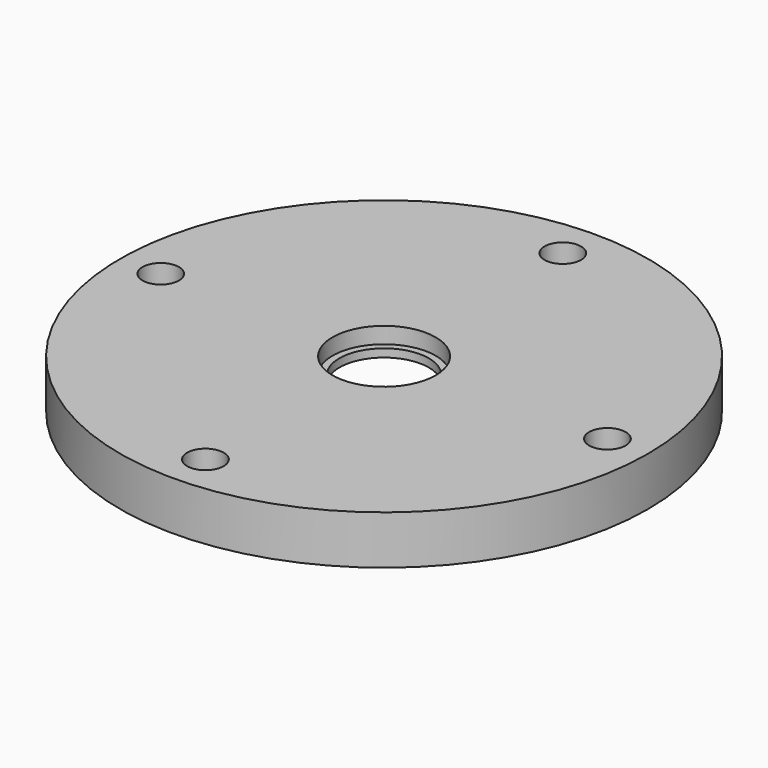
from build123d import *

# Parameters (mm, degrees)
F0_W     = 65
F0_H     = 12
F4_R     = 4.5
F5_DEPTH = 12


with BuildPart() as f1:
    # F0 (on Front) → F1 (revolve)
    with BuildSketch(Plane.XZ):
        with Locations((32.5, 6)):
            Rectangle(F0_W, F0_H)
    revolve(axis=Axis((0, 0, 18.457142), (0, 0, 1)))

    # F2 (on Front) → F3 (revolve, cut)
    with BuildSketch(Plane.XZ):
        Polygon((0, 12), (0, 0), (35, 0), (35, 6), (11, 6), (11, 8), (12.7, 8), (12.7, 12), align=None)
    revolve(axis=Axis((0, 0, 11.269168), (0, 0, 1)), mode=Mode.SUBTRACT)

    # F4 (on face) → F5 (cut, through all)
    with BuildSketch(Plane.XY.offset(12)):
        with Locations((55, 0)):
            Circle(F4_R)
        with Locations((0, 55)):
            Circle(F4_R)
        with Locations((-55, 0)):
            Circle(F4_R)
        with Locations((0, -55)):
            Circle(F4_R)
    extrude(amount=-F5_DEPTH, mode=Mode.SUBTRACT)


solid = f1.part
